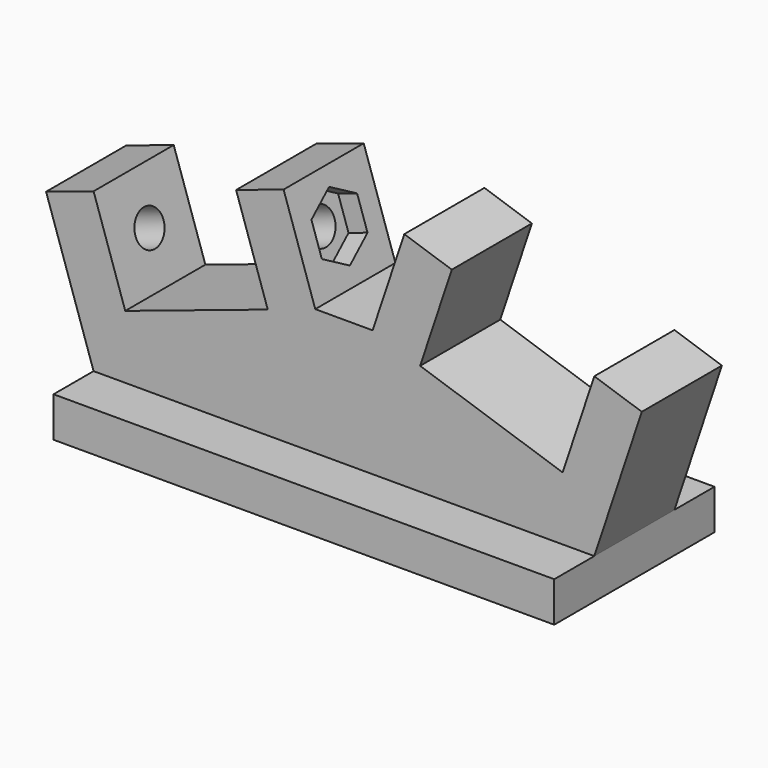
from build123d import *

# Parameters (mm, degrees)
F0_W      = 50
F0_H      = 20
F1_DEPTH  = 4
F4_DEPTH  = 5
F5_R      = 1.75
F6_DEPTH  = 25
F8_DEPTH  = 2
F10_DEPTH = 10
F12_DEPTH = 10


with BuildPart() as f1:
    # F0 (on Top) → F1 (new body)
    with BuildSketch(Plane.XY):
        with Locations((25, 10)):
            Rectangle(F0_W, F0_H)
    extrude(amount=F1_DEPTH)

    # F3 (on offset) → F4 (join, symmetric)
    with BuildSketch(Plane.XZ.offset(-10)):
        Polygon((-4.7434164903, 18.2302494708), (0, 4), (5.2704627669, 4), (0, 19.8113883008), align=None)
        Polygon((14.2302494708, 24.5548047911), (21.0818510678, 4), (28.9181489322, 4), (35.7697505292, 24.5548047911), (31.026334039, 26.1359436212), (25, 8.0569415042), (18.973665961, 26.1359436212), align=None)
        Polygon((50, 4), (54.7434164903, 18.2302494708), (50, 19.8113883008), (44.7295372331, 4), align=None)
    extrude(amount=F4_DEPTH, both=True)

    # F5 (on face) → F6 (cut, through all)
    with BuildSketch(Plane(origin=(1.2, 0, 0.4), x_dir=(0, -1, 0), z_dir=(-0.9486832981, 0, -0.316227766))):
        with Locations((-10, 13.7947331922)):
            Circle(F5_R)
    extrude(amount=-F6_DEPTH, mode=Mode.SUBTRACT)

    # F7 (on face) → F8 (cut)
    with BuildSketch(Plane(origin=(24.9170824513, 0, 8.3056941504), x_dir=(0, 1, 0), z_dir=(0.9486832981, 0, 0.316227766))):
        Polygon((12.85, 12.1492849251), (12.85, 15.4401814595), (10, 17.0856297267), (7.15, 15.4401814595), (7.15, 12.1492849251), (10, 10.5038366579), align=None)
    extrude(amount=-F8_DEPTH, mode=Mode.SUBTRACT)

    # F9 (on face) → F10 (join, through all)
    with BuildSketch(Plane.XZ.offset(-5)):
        Polygon((22.135944317, 16.6491085532), (25, 8.0569415042), (27.864055683, 16.6491085532), align=None)
    extrude(amount=-F10_DEPTH)

    # F11 (on face) → F12 (join, through all)
    with BuildSketch(Plane.XZ.offset(-5)):
        Polygon((17.3925278267, 15.0679697232), (3.162278356, 10.3245532329), (5.2704627669, 4), (21.0818510678, 4), align=None)
        Polygon((28.9181489322, 4), (44.7295372331, 4), (46.837721644, 10.3245532329), (32.6074721733, 15.0679697232), align=None)
    extrude(amount=-F12_DEPTH)


solid = f1.part
